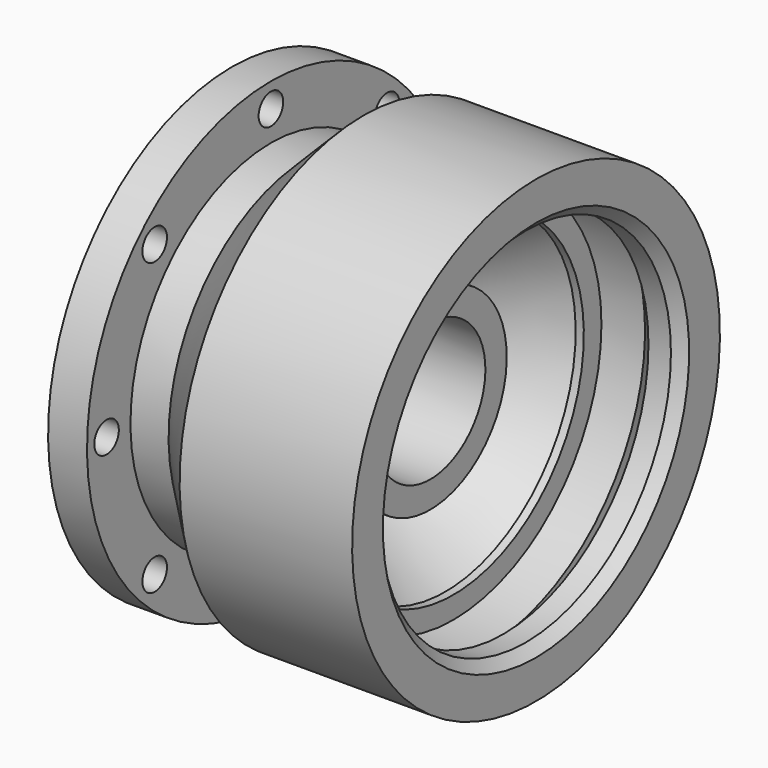
from build123d import *

# Parameters (mm, degrees)
F2_R     = 4.55
F3_DEPTH = 25.4
F4_DEPTH = 25.4
F5_SIZE  = 3
F6_R     = 10
F7_SIZE  = 5.08


with BuildPart() as f1:
    # F0 (on Front) → F1 (revolve)
    with BuildSketch(Plane.XZ):
        Polygon((-50.647253, 53.75), (-50.647253, 43.45), (-43.517253, 41.81), (-35.187253, 41.81), (-35.187253, 32.5), (-26.757253, 32.5), (-5.610722, 53.779667), (-0.672578, 58.748901), (7.293111, 50.83305), (-13.787253, 33.353894), (-18.744158, 28.883305), (-29.087253, 19.554958), (-29.087253, 15), (-13.787253, 17.013894), (-13.787253, 20.423894), (13.142747, 20.423894), (13.142747, 28.333894), (-5.157253, 28.333894), (-5.157253, 32.843894), (17.578436, 48.34), (19.998436, 48.34), (19.998436, 54.86), (13.998436, 54.86), (9.798436, 53.354149), (1.832747, 61.27), (29.752747, 61.27), (29.752747, 53.75), (44.492747, 53.75), (44.492747, 68.15), (-6.657253, 68.15), (-22.807253, 52.05), (-34.107253, 52.05), (-34.107253, 68.15), (-45.647253, 68.15), (-45.647253, 53.75), align=None)
    revolve(axis=Axis((-3.077253, 0, 0), (1, 0, 0)))

    # F2 (on face) → F3 (cut)
    with BuildSketch(Plane(origin=(-45.647253, 0, 0), x_dir=(0, -1, 0), z_dir=(-1, 0, 0))):
        with Locations((0, 60.91)):
            Circle(F2_R)
    extrude(amount=-F3_DEPTH, mode=Mode.SUBTRACT)

    # F2 (on face) → F4 (cut)
    with BuildSketch(Plane(origin=(-45.647253, 0, 0), x_dir=(0, -1, 0), z_dir=(-1, 0, 0))):
        with Locations((0, 60.91)):
            Circle(F2_R)
        with Locations((-43.069874, 43.069874)):
            Circle(F2_R)
        with Locations((-60.91, 0)):
            Circle(F2_R)
        with Locations((-43.069874, -43.069874)):
            Circle(F2_R)
        with Locations((0, -60.91)):
            Circle(F2_R)
        with Locations((43.069874, -43.069874)):
            Circle(F2_R)
        with Locations((60.91, 0)):
            Circle(F2_R)
        with Locations((43.069874, 43.069874)):
            Circle(F2_R)
    extrude(amount=-F4_DEPTH, mode=Mode.SUBTRACT)

    # F5
    f5_edges = [f1.edges().sort_by_distance(p)[0] for p in [
        (44.492747, 0, -53.75),
    ]]
    chamfer(f5_edges, length=F5_SIZE)

    # F6
    f6_edges = [f1.edges().sort_by_distance(p)[0] for p in [
        (-26.757253, 0, -32.5),
    ]]
    fillet(f6_edges, radius=F6_R)

    # F7
    f7_edges = [f1.edges().sort_by_distance(p)[0] for p in [
        (29.752747, 0, -53.75),
    ]]
    chamfer(f7_edges, length=F7_SIZE)


solid = f1.part
